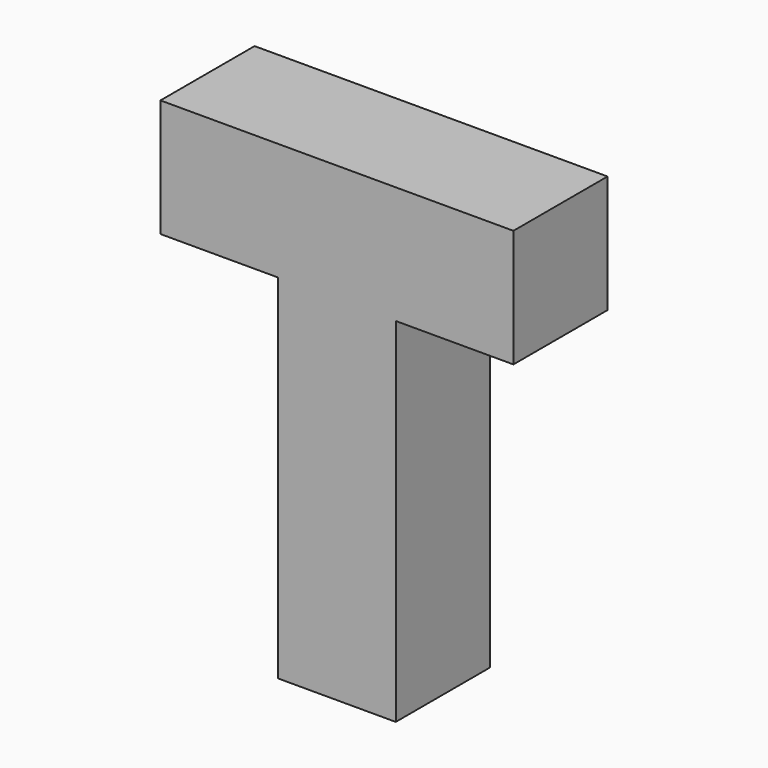
from build123d import *

# Parameters (mm, degrees)
BOX073_W     = 1
BOX073_H     = 1
BOX073_DEPTH = 3
BOX068_W     = 3
BOX068_H     = 1
BOX068_DEPTH = 1


with BuildPart() as box073:
    # Box073 → Box073 (new body)
    with BuildSketch(Plane(origin=(30, 0, 3), x_dir=(1, 0, 0), z_dir=(0, 0, 1))):
        with Locations((0.5, 0.5)):
            Rectangle(BOX073_W, BOX073_H)
    extrude(amount=BOX073_DEPTH)


with BuildPart() as fusion034:
    # Box068 → Box068 (new body)
    with BuildSketch(Plane(origin=(29, 0, 6), x_dir=(1, 0, 0), z_dir=(0, 0, 1))):
        with Locations((1.5, 0.5)):
            Rectangle(BOX068_W, BOX068_H)
    extrude(amount=BOX068_DEPTH)

    # Fusion034: union Box073
    add(box073.part)


solid = fusion034.part
